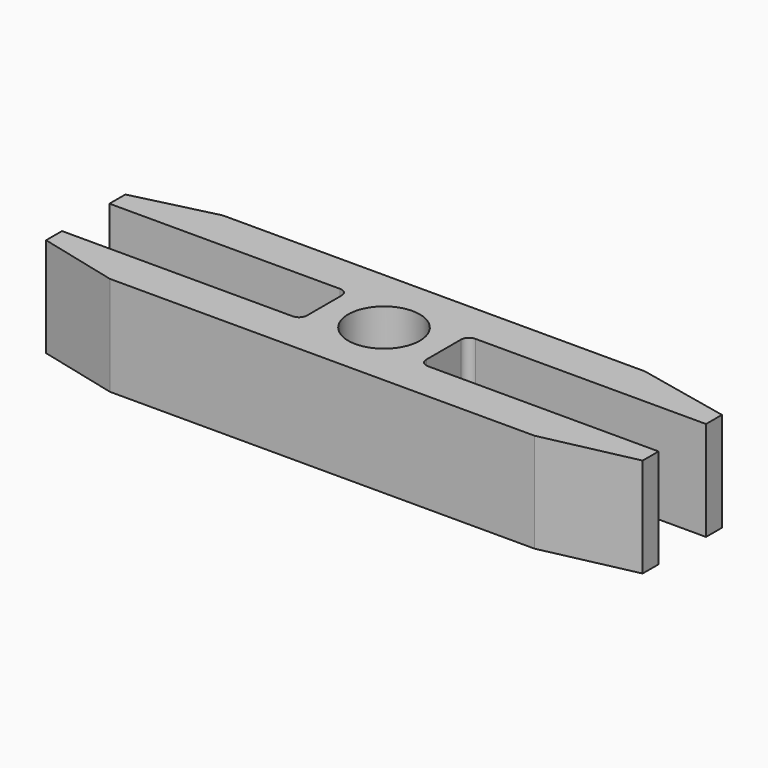
from build123d import *

# Parameters (mm, degrees)
F1_DEPTH = 25
F2_R     = 9
F3_DEPTH = 40
F4_R     = 2


with BuildPart() as f1:
    # F0 (on Top) → F1 (new body)
    with BuildSketch(Plane.XY):
        Polygon((-15, -7.459), (-75, -7.459), (-75, -12.459), (-54.951493, -17.459), (51.843371, -17.459), (75, -12.459), (75, -7.459), (15, -7.459), (15, 7.459), (75, 7.459), (75, 12.459), (51.631901, 17.459), (-54.528542, 17.459), (-75, 12.459), (-75, 7.459), (-15, 7.459), align=None)
    extrude(amount=F1_DEPTH)

    # F2 (on face) → F3 (cut)
    with BuildSketch(Plane.XY.offset(25)):
        Circle(F2_R)
    extrude(amount=-F3_DEPTH, mode=Mode.SUBTRACT)

    # F4
    f4_edges = [f1.edges().sort_by_distance(p)[0] for p in [
        (-15, -7.459, 12.5),
        (-15, 7.459, 12.5),
        (15, -7.459, 12.5),
        (15, 7.459, 12.5),
    ]]
    fillet(f4_edges, radius=F4_R)


solid = f1.part
